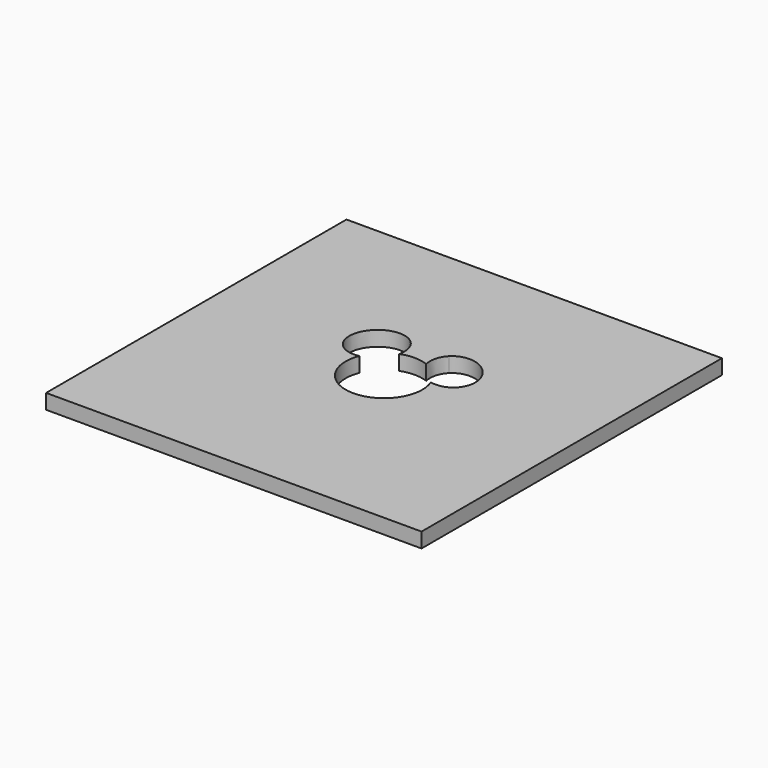
from build123d import *

# Parameters (mm, degrees)
F0_W     = 159.9906936405
F0_H     = 160
F2_DEPTH = 6.35
F3_DEPTH = 6.351
F4_DEPTH = 25
F5_DEPTH = 25
F6_DEPTH = 25
F7_DEPTH = 25


with BuildPart() as f2:
    # F0 (on Top) → F2 (new body)
    with BuildSketch(Plane.XY):
        Rectangle(F0_W, F0_H)
    extrude(amount=-F2_DEPTH)

    # F1 (on face) → F3 (cut, through all)
    with BuildSketch(Plane.XY):
        with BuildLine():
            add(Edge.make_bspline(
                [(-8.1994745377, 24.4279390933), (-19.7248762604, 35.8088584368), (-26.0936386648, 19.0302092428), (-32.4624010693, 2.2515600487), (-15.2297855146, 5.9064251608)],
                knots=[0, 0, 0, 2.0353938469, 2.0353938469, 4.0707876938, 4.0707876938, 4.0707876938], degree=2, weights=[1, 0.5253270315, 1, 0.5253270315, 1]))
            ThreePointArc((-15.2297855146, 5.9064251608), (-11.4929489268, 11.6079433995), (-5.7545107942, 15.2878327607))
            add(Edge.make_bspline(
                [(-5.7545107942, 15.2878327607), (-4.5186333902, 20.7932409522), (-8.1994745377, 24.4279390933)],
                knots=[5.3284067292, 5.3284067292, 5.3284067292, 6.2831853072, 6.2831853072, 6.2831853072], degree=2, weights=[1, 0.8881974706, 1]))
        make_face()
    extrude(amount=-F3_DEPTH, mode=Mode.SUBTRACT)

    # F1 (on face) → F4 (cut)
    with BuildSketch(Plane.XY):
        with BuildLine():
            add(Edge.make_bspline(
                [(5.7545107942, 15.2878327607), (7.4920907008, 7.5475127097), (15.2297855146, 5.9064251608)],
                knots=[0.954778578, 0.954778578, 0.954778578, 2.2123976134, 2.2123976134, 2.2123976134], degree=2, weights=[1, 0.808728302, 1]))
            ThreePointArc((15.2297855146, 5.9064251608), (11.4929489268, 11.6079433995), (5.7545107942, 15.2878327607))
        make_face()
    extrude(amount=-F4_DEPTH, mode=Mode.SUBTRACT)

    # F1 (on face) → F5 (cut)
    with BuildSketch(Plane.XY):
        with BuildLine():
            ThreePointArc((5.7545107942, 15.2878327607), (11.4929489268, 11.6079433995), (15.2297855146, 5.9064251608))
            add(Edge.make_bspline(
                [(15.2297855146, 5.9064251608), (32.4624010693, 2.2515600487), (26.0936386648, 19.0302092428), (19.7248762604, 35.8088584368), (8.1994745377, 24.4279390933)],
                knots=[2.2123976134, 2.2123976134, 2.2123976134, 4.2477914603, 4.2477914603, 6.2831853072, 6.2831853072, 6.2831853072], degree=2, weights=[1, 0.5253270315, 1, 0.5253270315, 1]))
            add(Edge.make_bspline(
                [(8.1994745377, 24.4279390933), (4.5186333902, 20.7932409522), (5.7545107942, 15.2878327607)],
                knots=[0, 0, 0, 0.954778578, 0.954778578, 0.954778578], degree=2, weights=[1, 0.8881974706, 1]))
        make_face()
    extrude(amount=-F5_DEPTH, mode=Mode.SUBTRACT)

    # F1 (on face) → F6 (cut)
    with BuildSketch(Plane.XY):
        with BuildLine():
            ThreePointArc((-5.7545107942, 15.2878327607), (-11.4929489268, 11.6079433995), (-15.2297855146, 5.9064251608))
            add(Edge.make_bspline(
                [(-15.2297855146, 5.9064251608), (-7.4920907008, 7.5475127097), (-5.7545107942, 15.2878327607)],
                knots=[4.0707876938, 4.0707876938, 4.0707876938, 5.3284067292, 5.3284067292, 5.3284067292], degree=2, weights=[1, 0.808728302, 1]))
        make_face()
    extrude(amount=-F6_DEPTH, mode=Mode.SUBTRACT)

    # F1 (on face) → F7 (cut)
    with BuildSketch(Plane.XY):
        with BuildLine():
            ThreePointArc((-15.2297855146, 5.9064251608), (-3.0044698883, -16.0563191825), (16.335, 0))
            ThreePointArc((16.335, 0), (16.0563191825, 3.0044698883), (15.2297855146, 5.9064251608))
            add(Edge.make_bspline(
                [(5.7545107942, 15.2878327607), (7.4920907008, 7.5475127097), (15.2297855146, 5.9064251608)],
                knots=[0.954778578, 0.954778578, 0.954778578, 2.2123976134, 2.2123976134, 2.2123976134], degree=2, weights=[1, 0.808728302, 1]))
            ThreePointArc((5.7545107942, 15.2878327607), (0, 16.335), (-5.7545107942, 15.2878327607))
            add(Edge.make_bspline(
                [(-15.2297855146, 5.9064251608), (-7.4920907008, 7.5475127097), (-5.7545107942, 15.2878327607)],
                knots=[4.0707876938, 4.0707876938, 4.0707876938, 5.3284067292, 5.3284067292, 5.3284067292], degree=2, weights=[1, 0.808728302, 1]))
        make_face()
    extrude(amount=-F7_DEPTH, mode=Mode.SUBTRACT)


solid = f2.part
